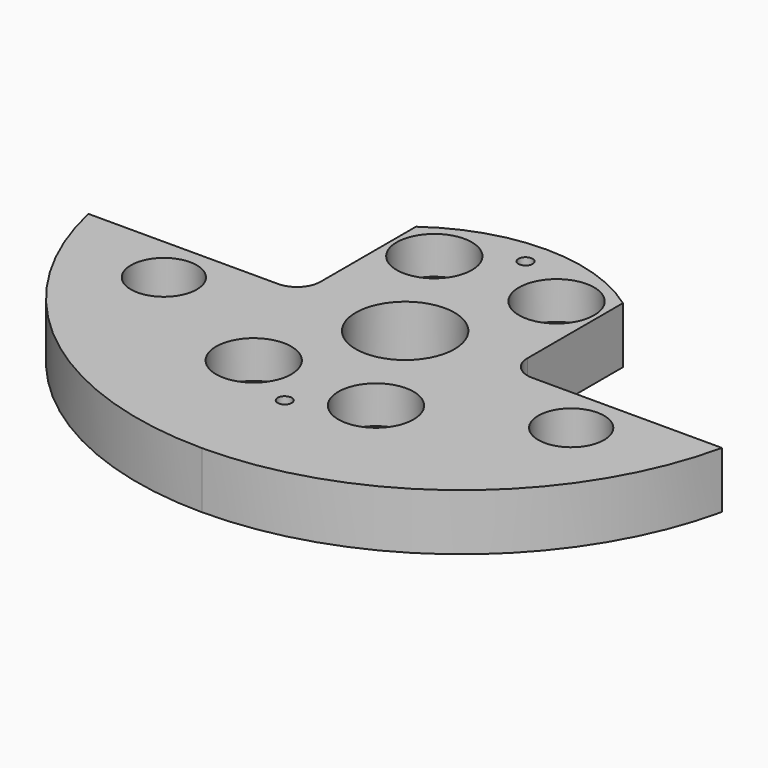
from build123d import *

# Parameters (mm, degrees)
F1_R           = 10.5
F2_DEPTH       = 12
F6_D           = 6.4
F6_CBORE_D     = 16
F6_CBORE_DEPTH = 8
F7_D           = 14
F9_D           = 3
F9_CBORE_D     = 4.9
F9_CBORE_DEPTH = 7


with BuildPart() as f2:
    # F1 (on offset) → F2 (new body)
    with BuildSketch(Plane.XY.offset(19)):
        with BuildLine():
            ThreePointArc((22, 30.3685692781), (0, 37.5), (-22, 30.3685692781))
            Line((-22, 30.3685692781), (-22, 5))
            ThreePointArc((-22, 5), (-23.4644660941, 1.4644660941), (-27, 0))
            Line((-27, 0), (-67.3498329619, 0))
            ThreePointArc((-67.3498329619, 0), (-43.1624837098, -38.8330753348), (0, -54))
            ThreePointArc((0, -54), (43.1624837098, -38.8330753348), (67.3498329619, 0))
            Line((67.3498329619, 0), (27, 0))
            ThreePointArc((27, 0), (23.4644660941, 1.4644660941), (22, 5))
            Line((22, 5), (22, 30.3685692781))
        make_face()
        Circle(F1_R, mode=Mode.SUBTRACT)
    extrude(amount=F2_DEPTH)

    # F6 (through all)
    with Locations(Plane.XY.offset(31)):
        with Locations((-13, 24), (13, 24), (-13, -24), (13, -24)):
            CounterBoreHole(F6_D / 2, F6_CBORE_D / 2, F6_CBORE_DEPTH)

    # F7 (through all)
    with Locations(Plane.XY.offset(31)):
        with Locations((-43.3012701892, -10), (43.3012701892, -10)):
            Hole(F7_D / 2)

    # F9 (through all)
    with Locations(Plane(origin=(0, 0, 19), x_dir=(1, 0, 0), z_dir=(0, 0, -1))):
        with Locations((0, 32), (0, -32)):
            CounterBoreHole(F9_D / 2, F9_CBORE_D / 2, F9_CBORE_DEPTH)


solid = f2.part
